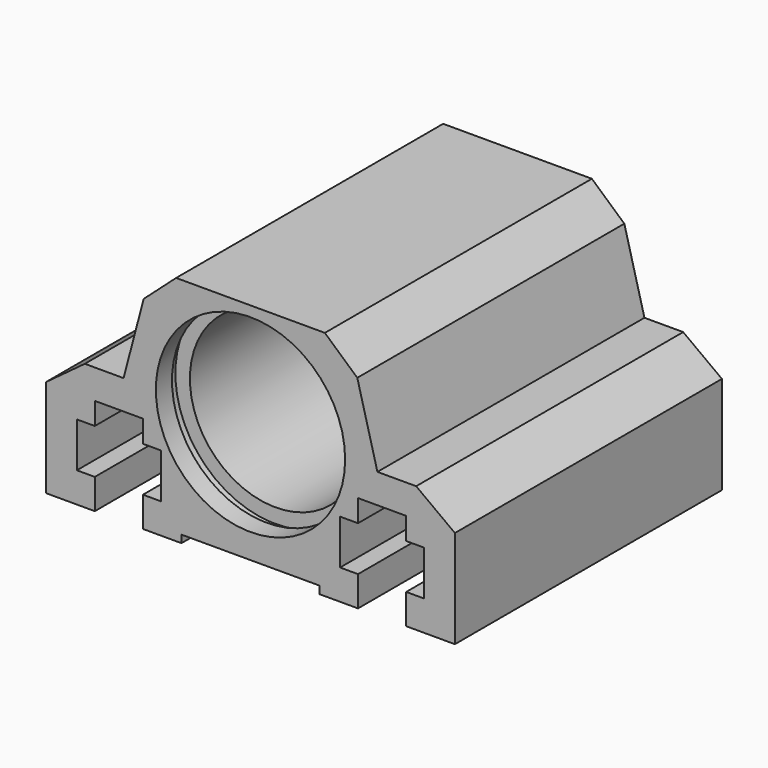
from build123d import *

# Parameters (mm, degrees)
F0_R     = 7.65
F1_DEPTH = 14.9
F3_R     = 8.95
F4_DEPTH = 1
F5_R     = 7.65
F5_R_2   = 6.65
F6_DEPTH = 3
F7_R     = 8.45
F8_DEPTH = 2.8


with BuildPart() as f1:
    # F0 (on Front) → F1 (new body, symmetric)
    with BuildSketch(Plane.XZ):
        Polygon((6.1629465781, 0.6753290654), (6.1629465781, 0), (9.6, 0), (9.6, 2.6953140035), (8, 2.6953140035), (8, 6.6953140035), (9.6, 6.6953140035), (9.6, 8.6722822437), (13.9, 8.6722822437), (13.9, 6.6953140035), (15.5, 6.6953140035), (15.5, 2.6953140035), (13.9, 2.6953140035), (13.9, 0), (18.25, 0), (18.25, 8.7399063632), (14.7912298739, 11.2948538736), (11.3324597478, 11.2948538736), (9.5360150372, 18.1063750603), (6.6399620846, 20.6953901798), (0, 20.6953901798), (-6.6399620846, 20.6953901798), (-9.5360150372, 18.1063750603), (-11.3324597478, 11.2948538736), (-14.7912298739, 11.2948538736), (-18.25, 8.7399063632), (-18.25, 0), (-13.9, 0), (-13.9, 2.6953140035), (-15.5, 2.6953140035), (-15.5, 6.6953140035), (-13.9, 6.6953140035), (-13.9, 8.6722822437), (-9.6, 8.6722822437), (-9.6, 6.6953140035), (-8, 6.6953140035), (-8, 2.6953140035), (-9.6, 2.6953140035), (-9.6, 0), (-6.1629465781, 0), (-6.1629465781, 0.6753290654), (0, 0.6753290654), align=None)
        with Locations((0, 11.3253290654)):
            Circle(F0_R, mode=Mode.SUBTRACT)
    extrude(amount=F1_DEPTH, both=True)

    # F3 (on offset) → F4 (cut)
    with BuildSketch(Plane.XZ.offset(12.1)):
        with Locations((0, 11.3253290654)):
            Circle(F3_R)
    extrude(amount=F4_DEPTH, mode=Mode.SUBTRACT)

    # F5 (on face) → F6 (join)
    with BuildSketch(Plane(origin=(0, 14.9, 0), x_dir=(-1, 0, 0), z_dir=(0, 1, 0))):
        with Locations((0, 11.3253290654)):
            Circle(F5_R)
        with Locations((0, 11.3253290654)):
            Circle(F5_R_2, mode=Mode.SUBTRACT)
    extrude(amount=-F6_DEPTH)

    # F7 (on face) → F8 (cut, through all)
    with BuildSketch(Plane.XZ.offset(14.9)):
        with Locations((0, 11.3253290654)):
            Circle(F7_R)
    extrude(amount=-F8_DEPTH, mode=Mode.SUBTRACT)


solid = f1.part
